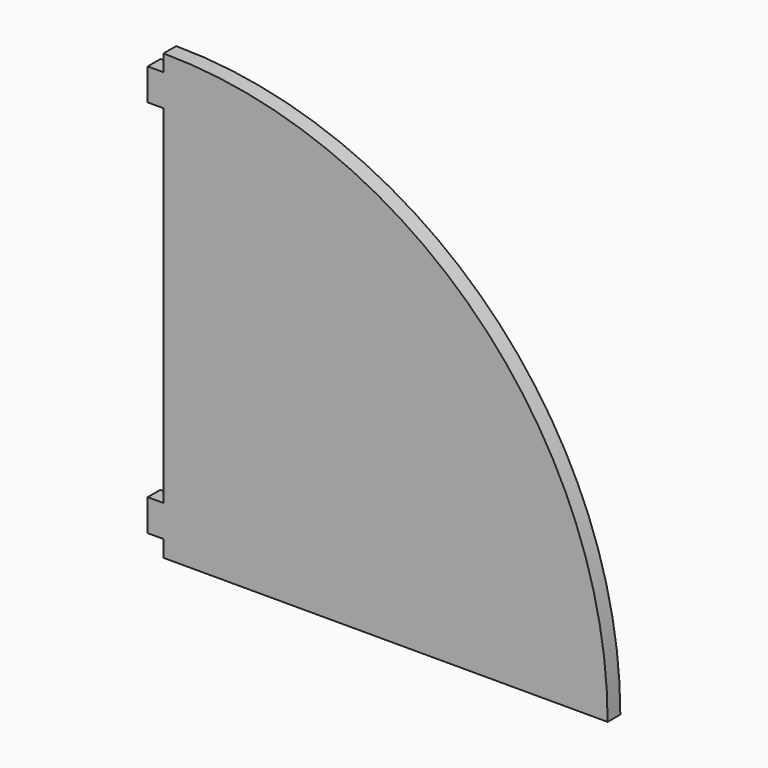
from build123d import *

# Parameters (mm, degrees)
F0_W     = 5
F0_H     = 10
F1_DEPTH = 5


with BuildPart() as f1:
    # F0 (on Front) → F1 (new body)
    with BuildSketch(Plane.XZ):
        with BuildLine():
            Line((-70, -64.773785), (-70, -70))
            Line((-70, -70), (70, -70))
            ThreePointArc((70, -70), (28.994949, 28.994949), (-70, 70))
            Line((-70, 70), (-70, 64.773785))
            Line((-70, 64.773785), (-70, 54.773785))
            Line((-70, 54.773785), (-70, -54.773785))
            Line((-70, -54.773785), (-70, -64.773785))
        make_face()
        with Locations((-72.5, -59.773785)):
            Rectangle(F0_W, F0_H)
        with Locations((-72.5, 59.773785)):
            Rectangle(F0_W, F0_H)
    extrude(amount=F1_DEPTH)


solid = f1.part
